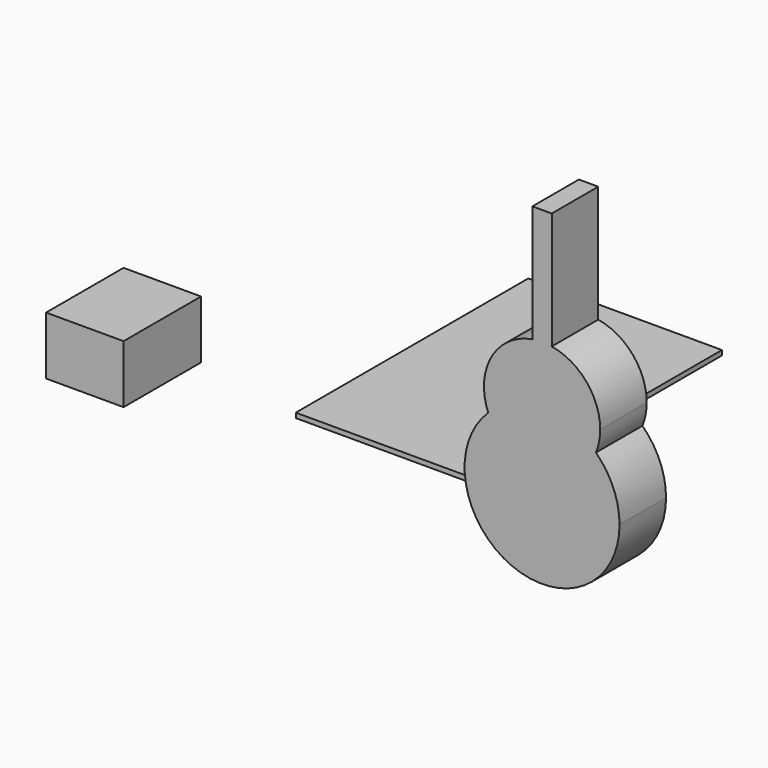
from build123d import *

# Parameters (mm, degrees)
F1_DEPTH = 300
F2_W     = 400
F2_H     = 500
F3_DEPTH = 300
F0_W     = 1000
F0_H     = 1500
F4_DEPTH = 25


with BuildPart() as f1:
    # F5 (on Front) → F1 (new body)
    with BuildSketch(Plane.XZ):
        with BuildLine():
            ThreePointArc((1233.358442, 547.15737), (1355.32969, -108.610859), (1911.465885, 259.65737))
            ThreePointArc((1911.465885, 259.65737), (1879.734114, 415.793565), (1789.573328, 547.15737))
            ThreePointArc((1789.573328, 547.15737), (1511.465885, 359.65737), (1233.358442, 547.15737))
        make_face()
        with BuildLine():
            ThreePointArc((1233.358442, 547.15737), (1511.465885, 659.65737), (1789.573328, 547.15737))
            ThreePointArc((1789.573328, 547.15737), (1805.941888, 602.352191), (1811.465885, 659.65737))
            ThreePointArc((1811.465885, 659.65737), (1740.59467, 853.306537), (1561.465885, 955.461359))
            Line((1561.465885, 955.461359), (1461.465885, 955.461359))
            ThreePointArc((1461.465885, 955.461359), (1249.565789, 805.973259), (1233.358442, 547.15737))
        make_face()
        with BuildLine():
            ThreePointArc((1233.358442, 547.15737), (1511.465885, 359.65737), (1789.573328, 547.15737))
            ThreePointArc((1789.573328, 547.15737), (1511.465885, 659.65737), (1233.358442, 547.15737))
        make_face()
        with BuildLine():
            ThreePointArc((1561.465885, 955.461359), (1511.465885, 959.65737), (1461.465885, 955.461359))
            Line((1461.465885, 955.461359), (1561.465885, 955.461359))
        make_face()
        with BuildLine():
            Line((1461.465885, 1559.65737), (1461.465885, 955.461359))
            ThreePointArc((1461.465885, 955.461359), (1511.465885, 959.65737), (1561.465885, 955.461359))
            Line((1561.465885, 955.461359), (1561.465885, 1559.65737))
            Line((1561.465885, 1559.65737), (1461.465885, 1559.65737))
        make_face()
    extrude(amount=F1_DEPTH)


with BuildPart() as f3:
    # F2 (on Top) → F3 (new body)
    with BuildSketch(Plane.XY):
        with Locations((-801.855135, -109.242648)):
            Rectangle(F2_W, F2_H)
    extrude(amount=F3_DEPTH)


with BuildPart() as f4:
    # F0 (on Top) → F4 (new body)
    with BuildSketch(Plane.XY):
        with Locations((500, 750)):
            Rectangle(F0_W, F0_H)
    extrude(amount=F4_DEPTH)


solid = Compound([f1.part, f3.part, f4.part])
